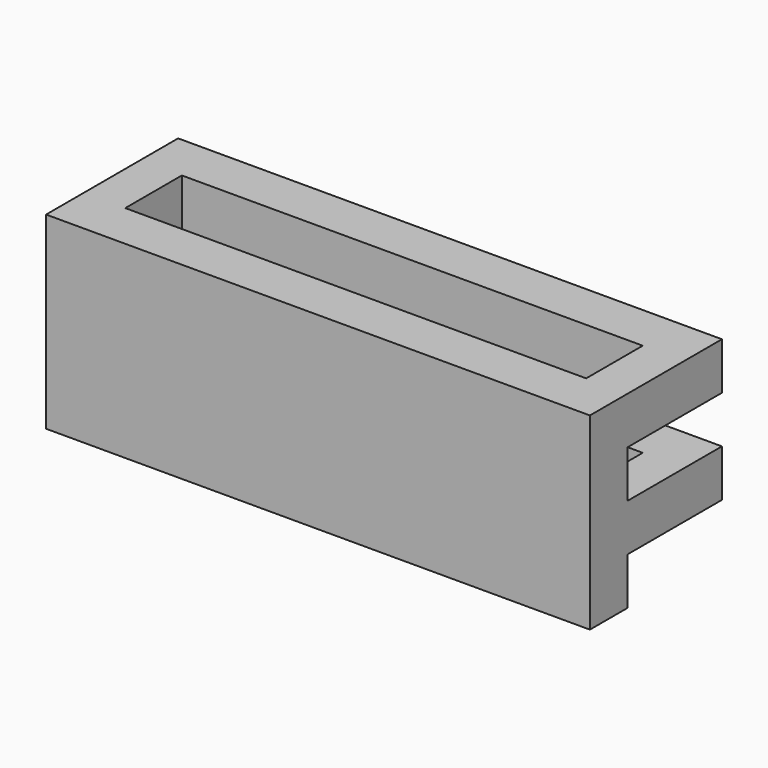
from build123d import *

# Parameters (mm, degrees)
F0_W     = 23.068964
F0_H     = 7
F0_W_2   = 19.551722
F0_H_2   = 3
F1_DEPTH = 2
F3_DEPTH = 2
F5_DEPTH = 2
F7_DEPTH = 2


with BuildPart() as f1:
    # F0 (on Top) → F1 (new body)
    with BuildSketch(Plane.XY):
        with Locations((2.640947, 3.5)):
            Rectangle(F0_W, F0_H)
        with Locations((2.640947, 3.5)):
            Rectangle(F0_W_2, F0_H_2, mode=Mode.SUBTRACT)
    extrude(amount=F1_DEPTH)

    # F2 (on face) → F3 (join)
    with BuildSketch(Plane(origin=(0, 0, 0), x_dir=(1, 0, 0), z_dir=(0, 0, -1))):
        Polygon((14.175429, -2), (14.175429, 0), (-8.893535, 0), (-8.893535, -2), (-7.134914, -2), (12.416808, -2), align=None)
    extrude(amount=F3_DEPTH)

    # F4 (on face) → F5 (join)
    with BuildSketch(Plane.XY.offset(2)):
        Polygon((-8.893535, 2), (-8.893535, 0), (14.175429, 0), (14.175429, 2), (12.416808, 2), (-7.134914, 2), align=None)
    extrude(amount=F5_DEPTH)

    # F6 (on face) → F7 (join)
    with BuildSketch(Plane.XY.offset(4)):
        Polygon((-7.134914, 2), (-8.893535, 2), (-8.893535, 0), (14.175429, 0), (14.175429, 2), (12.416808, 2), align=None)
        Polygon((-8.893535, 7), (-8.893535, 2), (-7.134914, 2), (-7.134914, 5), (12.416808, 5), (12.416808, 2), (14.175429, 2), (14.175429, 7), align=None)
    extrude(amount=F7_DEPTH)


solid = f1.part
